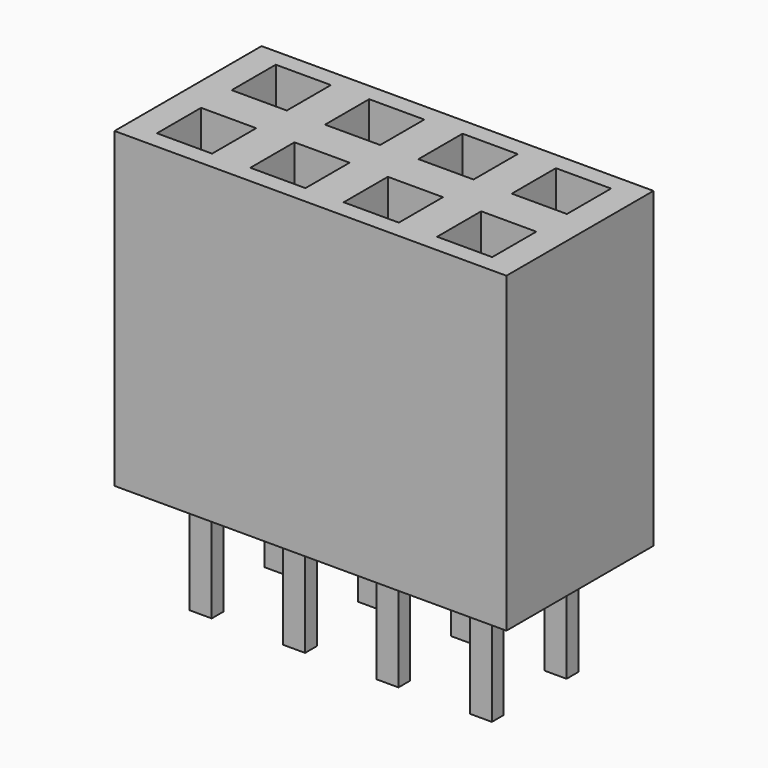
from build123d import *

# Parameters (mm, degrees)
F0_W     = 10.66
F0_H     = 5
F1_DEPTH = 8.5
F2_W     = 1.5
F2_H     = 1.5
F3_DEPTH = 7
F4_W     = 0.6
F4_H     = 0.4
F5_DEPTH = 3


with BuildPart() as f1:
    # F0 (on Top) → F1 (new body)
    with BuildSketch(Plane.XY):
        Rectangle(F0_W, F0_H)
    extrude(amount=F1_DEPTH)

    # F2 (on face) → F3 (cut)
    with BuildSketch(Plane.XY.offset(8.5)):
        with Locations((-3.81, 1.27)):
            Rectangle(F2_W, F2_H)
        with Locations((-3.81, -1.27)):
            Rectangle(F2_W, F2_H)
        with Locations((-1.27, 1.27)):
            Rectangle(F2_W, F2_H)
        with Locations((-1.27, -1.27)):
            Rectangle(F2_W, F2_H)
        with Locations((1.27, 1.27)):
            Rectangle(F2_W, F2_H)
        with Locations((1.27, -1.27)):
            Rectangle(F2_W, F2_H)
        with Locations((3.81, 1.27)):
            Rectangle(F2_W, F2_H)
        with Locations((3.81, -1.27)):
            Rectangle(F2_W, F2_H)
        with Locations((6.35, 1.27)):
            Rectangle(F2_W, F2_H)
        with Locations((6.35, -1.27)):
            Rectangle(F2_W, F2_H)
        with Locations((8.89, 1.27)):
            Rectangle(F2_W, F2_H)
        with Locations((8.89, -1.27)):
            Rectangle(F2_W, F2_H)
    extrude(amount=-F3_DEPTH, mode=Mode.SUBTRACT)

    # F4 (on face) → F5 (join)
    with BuildSketch(Plane(origin=(0, 0, 0), x_dir=(1, 0, 0), z_dir=(0, 0, -1))):
        with Locations((-3.81, 1.27)):
            Rectangle(F4_W, F4_H)
        with Locations((-3.81, -1.27)):
            Rectangle(F4_W, F4_H)
        with Locations((-1.27, 1.27)):
            Rectangle(F4_W, F4_H)
        with Locations((-1.27, -1.27)):
            Rectangle(F4_W, F4_H)
        with Locations((1.27, 1.27)):
            Rectangle(F4_W, F4_H)
        with Locations((1.27, -1.27)):
            Rectangle(F4_W, F4_H)
        with Locations((3.81, 1.27)):
            Rectangle(F4_W, F4_H)
        with Locations((3.81, -1.27)):
            Rectangle(F4_W, F4_H)
    extrude(amount=F5_DEPTH)


with BuildPart() as f5:
    # F4 (on face) → F5, piece 2 (new body)
    with BuildSketch(Plane(origin=(0, 0, 0), x_dir=(1, 0, 0), z_dir=(0, 0, -1))):
        with Locations((6.35, 1.27)):
            Rectangle(F4_W, F4_H)
    extrude(amount=F5_DEPTH)


with BuildPart() as f5b:
    # F4 (on face) → F5, piece 3 (new body)
    with BuildSketch(Plane(origin=(0, 0, 0), x_dir=(1, 0, 0), z_dir=(0, 0, -1))):
        with Locations((6.35, -1.27)):
            Rectangle(F4_W, F4_H)
    extrude(amount=F5_DEPTH)


with BuildPart() as f5c:
    # F4 (on face) → F5, piece 4 (new body)
    with BuildSketch(Plane(origin=(0, 0, 0), x_dir=(1, 0, 0), z_dir=(0, 0, -1))):
        with Locations((8.89, 1.27)):
            Rectangle(F4_W, F4_H)
    extrude(amount=F5_DEPTH)


with BuildPart() as f5d:
    # F4 (on face) → F5, piece 5 (new body)
    with BuildSketch(Plane(origin=(0, 0, 0), x_dir=(1, 0, 0), z_dir=(0, 0, -1))):
        with Locations((8.89, -1.27)):
            Rectangle(F4_W, F4_H)
    extrude(amount=F5_DEPTH)


solid = f1.part
